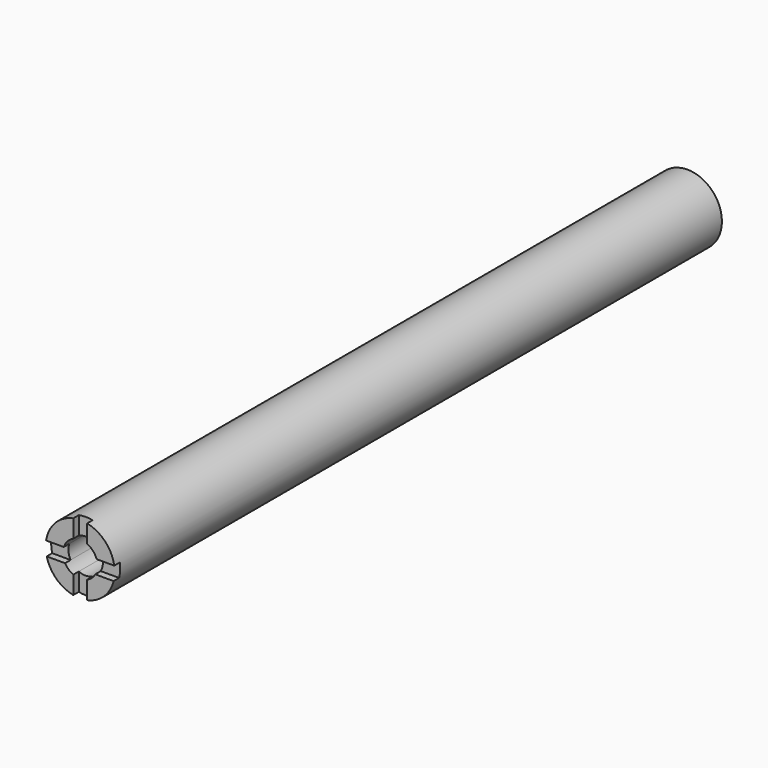
from build123d import *

# Parameters (mm, degrees)
F0_R     = 12.7
F1_DEPTH = 279.4
F3_DEPTH = 2.54
F4_DEPTH = 19.05


with BuildPart() as f1:
    # F0 (on Front) → F1 (new body)
    with BuildSketch(Plane.XZ):
        Circle(F0_R)
    extrude(amount=F1_DEPTH)

    # F2 (on face) → F3 (cut)
    with BuildSketch(Plane.XZ.offset(279.4)):
        with BuildLine():
            ThreePointArc((-5.5537875001, -3.0786270322), (-6.3227011551, -0.5881752316), (-6.026359286, 2.0013729678))
            Line((-6.026359286, 2.0013729678), (-12.5413119826, 2.0013729678))
            ThreePointArc((-12.5413119826, 2.0013729678), (-12.6880955617, -0.549755415), (-12.3212034963, -3.0786270322))
            Line((-12.3212034963, -3.0786270322), (-5.5537875001, -3.0786270322))
        make_face()
        with BuildLine():
            ThreePointArc((-2.54, 5.8198711326), (0, 6.35), (2.54, 5.8198711326))
            Line((2.54, 5.8198711326), (2.54, 12.4434078933))
            ThreePointArc((2.54, 12.4434078933), (0, 12.7), (-2.54, 12.4434078933))
            Line((-2.54, 12.4434078933), (-2.54, 5.8198711326))
        make_face()
        with BuildLine():
            ThreePointArc((6.026359286, 2.0013729678), (6.2685676779, 1.0136859805), (6.35, 0))
            ThreePointArc((6.35, 0), (6.1477252145, -1.589960593), (5.5537875001, -3.0786270322))
            Line((5.5537875001, -3.0786270322), (12.3212034963, -3.0786270322))
            ThreePointArc((12.3212034963, -3.0786270322), (12.6049451487, -1.5509215966), (12.7, 0))
            ThreePointArc((12.7, 0), (12.660265838, 1.0038271319), (12.5413119826, 2.0013729678))
            Line((12.5413119826, 2.0013729678), (6.026359286, 2.0013729678))
        make_face()
        with BuildLine():
            Line((2.54, -12.4434078933), (2.54, -5.8198711326))
            ThreePointArc((2.54, -5.8198711326), (0, -6.35), (-2.54, -5.8198711326))
            Line((-2.54, -5.8198711326), (-2.54, -12.4434078933))
            ThreePointArc((-2.54, -12.4434078933), (0, -12.7), (2.54, -12.4434078933))
        make_face()
    extrude(amount=-F3_DEPTH, mode=Mode.SUBTRACT)

    # F2 (on face) → F4 (cut)
    with BuildSketch(Plane.XZ.offset(279.4)):
        with BuildLine():
            ThreePointArc((5.5537875001, -3.0786270322), (6.1477252145, -1.589960593), (6.35, 0))
            ThreePointArc((6.35, 0), (6.2685676779, 1.0136859805), (6.026359286, 2.0013729678))
            ThreePointArc((6.026359286, 2.0013729678), (4.689441322, 4.2815464598), (2.54, 5.8198711326))
            ThreePointArc((2.54, 5.8198711326), (0, 6.35), (-2.54, 5.8198711326))
            ThreePointArc((-2.54, 5.8198711326), (-4.689441322, 4.2815464598), (-6.026359286, 2.0013729678))
            ThreePointArc((-6.026359286, 2.0013729678), (-6.3227011551, -0.5881752316), (-5.5537875001, -3.0786270322))
            ThreePointArc((-5.5537875001, -3.0786270322), (-4.2726986588, -4.6975042492), (-2.54, -5.8198711326))
            ThreePointArc((-2.54, -5.8198711326), (0, -6.35), (2.54, -5.8198711326))
            ThreePointArc((2.54, -5.8198711326), (4.2726986588, -4.6975042492), (5.5537875001, -3.0786270322))
        make_face()
    extrude(amount=-F4_DEPTH, mode=Mode.SUBTRACT)


solid = f1.part
